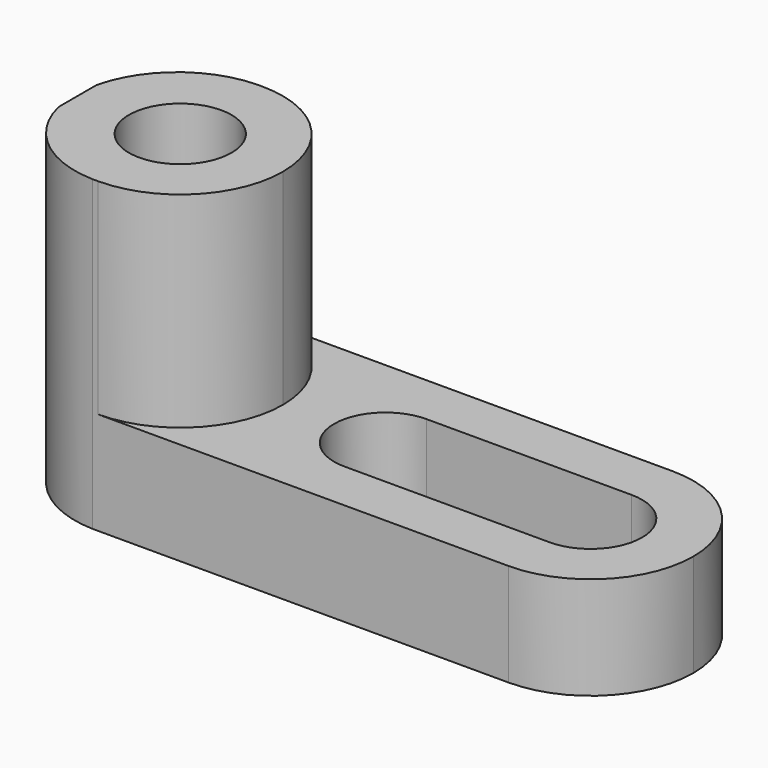
from build123d import *

# Parameters (mm, degrees)
F1_DEPTH = 25.4
F2_R     = 6.35
F3_DEPTH = 38.1
F5_DEPTH = 25.4
F7_DEPTH = 25.4


with BuildPart() as f1:
    # F0 (on Front) → F1 (new body)
    with BuildSketch(Plane.XZ):
        Polygon((0, 38.1), (0, 0), (76.2, 0), (76.2, 12.7), (25.4, 12.7), (25.4, 38.1), align=None)
    extrude(amount=F1_DEPTH)

    # F2 (on face) → F3 (cut)
    with BuildSketch(Plane.XY.offset(38.1)):
        with BuildLine():
            ThreePointArc((12.0178175899, -25.4), (4.3513987444, -22.5633729526), (0, -15.6434192037))
            Line((0, -15.6434192037), (0, -25.4))
            Line((0, -25.4), (12.0178175899, -25.4))
        make_face()
        with BuildLine():
            ThreePointArc((0, -9.7565807963), (4.3513987444, -2.8366270474), (12.0178175899, 0))
            Line((12.0178175899, 0), (0, 0))
            Line((0, 0), (0, -9.7565807963))
        make_face()
        with Locations((12.7, -12.7)):
            Circle(F2_R)
    extrude(amount=-F3_DEPTH, mode=Mode.SUBTRACT)

    # F4 (on face) → F5 (cut)
    with BuildSketch(Plane.XY.offset(38.1)):
        with BuildLine():
            ThreePointArc((12.7, 0), (21.6802561211, -3.7197438789), (25.4, -12.7))
            Line((25.4, -12.7), (25.4, 0))
            Line((25.4, 0), (12.7, 0))
        make_face()
        with BuildLine():
            ThreePointArc((25.4, -12.7), (21.6802561211, -21.6802561211), (12.7, -25.4))
            Line((12.7, -25.4), (25.4, -25.4))
            Line((25.4, -25.4), (25.4, -12.7))
        make_face()
    extrude(amount=-F5_DEPTH, mode=Mode.SUBTRACT)

    # F6 (on face) → F7 (cut)
    with BuildSketch(Plane.XY.offset(12.7)):
        with BuildLine():
            Line((63.5, -6.35), (38.1, -6.35))
            ThreePointArc((38.1, -6.35), (31.75, -12.7), (38.1, -19.05))
            Line((38.1, -19.05), (63.5, -19.05))
            Line((63.5, -19.05), (63.5, -6.35))
        make_face()
        with BuildLine():
            ThreePointArc((63.5, -19.05), (69.85, -12.7), (63.5, -6.35))
            Line((63.5, -6.35), (63.5, -19.05))
        make_face()
        with BuildLine():
            ThreePointArc((63.5, 0), (72.4802561211, -3.7197438789), (76.2, -12.7))
            Line((76.2, -12.7), (76.2, 0))
            Line((76.2, 0), (63.5, 0))
        make_face()
        with BuildLine():
            ThreePointArc((76.2, -12.7), (72.4802561211, -21.6802561211), (63.5, -25.4))
            Line((63.5, -25.4), (76.2, -25.4))
            Line((76.2, -25.4), (76.2, -12.7))
        make_face()
    extrude(amount=-F7_DEPTH, mode=Mode.SUBTRACT)


solid = f1.part
